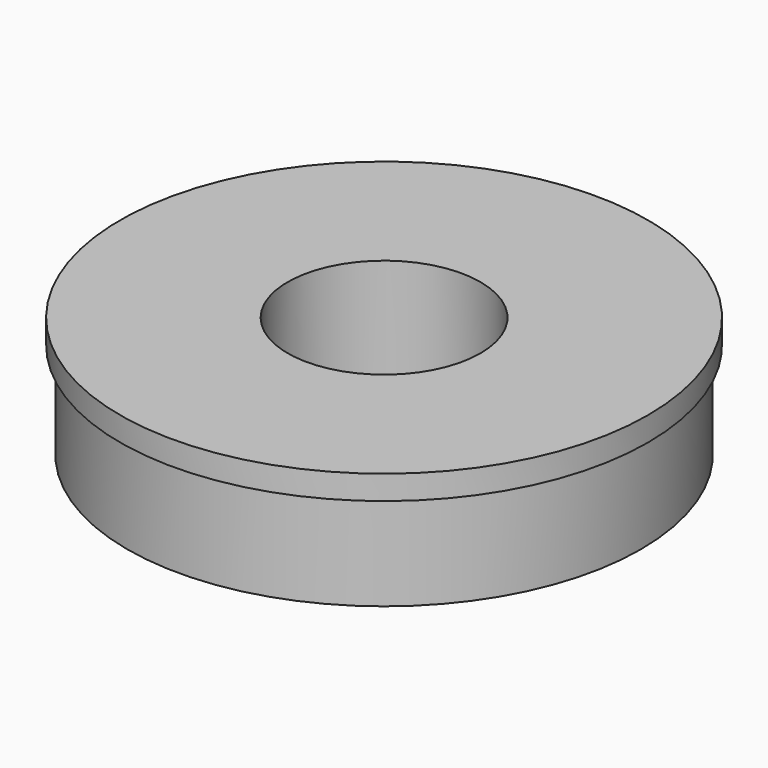
from build123d import *

# Parameters (mm, degrees)
F0_R     = 109.5
F1_DEPTH = 50
F2_R     = 109.5
F2_R_2   = 106.5
F3_DEPTH = 40
F4_R     = 40
F5_DEPTH = 50.001


with BuildPart() as f1:
    # F0 (on Top) → F1 (new body)
    with BuildSketch(Plane.XY):
        Circle(F0_R)
    extrude(amount=F1_DEPTH)

    # F2 (on face) → F3 (cut)
    with BuildSketch(Plane(origin=(0, 0, 0), x_dir=(1, 0, 0), z_dir=(0, 0, -1))):
        Circle(F2_R)
        Circle(F2_R_2, mode=Mode.SUBTRACT)
    extrude(amount=-F3_DEPTH, mode=Mode.SUBTRACT)

    # F4 (on face) → F5 (cut, through all)
    with BuildSketch(Plane.XY.offset(50)):
        Circle(F4_R)
    extrude(amount=-F5_DEPTH, mode=Mode.SUBTRACT)


solid = f1.part
